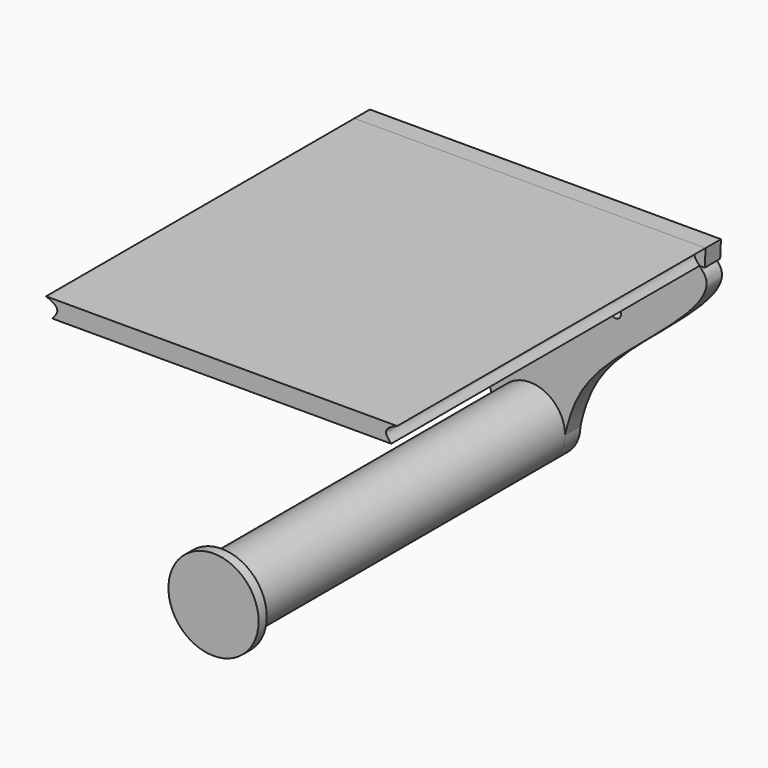
from build123d import *

# Parameters (mm, degrees)
F1_DEPTH = 110
F0_R     = 1.5
F2_DEPTH = 5.5
F3_R     = 12.8729147036
F3_R_2   = 10
F4_DEPTH = 2.9


with BuildPart() as f1:
    # F0 (on Front) → F1 (new body)
    with BuildSketch(Plane.XZ):
        with BuildLine():
            Line((-48.4015151421, 55), (48.4015151421, 55))
            add(Edge.make_bspline(
                [(50.1117266903, 60), (45.4576355608, 58.2266837042), (46.7977000249, 56.7705786305), (48.4015151421, 55)],
                knots=[0, 0, 0, 0, 0.1362259725, 0.1362259725, 0.1362259725, 0.1362259725], degree=3))
            Line((50.1117266903, 60), (0, 60))
            Line((0, 60), (-50.1117266903, 60))
            add(Edge.make_bspline(
                [(-50.1117266903, 60), (-45.4576355608, 58.2266837042), (-46.7977000249, 56.7705786305), (-48.4015151421, 55)],
                knots=[0, 0, 0, 0, 0.1362259725, 0.1362259725, 0.1362259725, 0.1362259725], degree=3))
        make_face()
    extrude(amount=F1_DEPTH)


with BuildPart() as f1b:
    # F0 (on Front) → F1, piece 2 (new body)
    with BuildSketch(Plane.XZ):
        with BuildLine():
            ThreePointArc((-10, 0), (0, -10), (10, 0))
            ThreePointArc((10, 0), (0, 10), (-10, 0))
        make_face()
    extrude(amount=F1_DEPTH)

    # F3 (on face) → F4 (join)
    with BuildSketch(Plane.XZ.offset(110)):
        Circle(F3_R)
        Circle(F3_R_2, mode=Mode.SUBTRACT)
        Circle(F3_R_2)
    extrude(amount=F4_DEPTH)


with BuildPart() as f2:
    # F0 (on Front) → F2 (new body)
    with BuildSketch(Plane.XZ):
        with BuildLine():
            ThreePointArc((-10, 0), (0, -10), (10, 0))
            ThreePointArc((10, 0), (0, 10), (-10, 0))
        make_face()
        with BuildLine():
            ThreePointArc((-10, 0), (0, 10), (10, 0))
            add(Edge.make_bspline(
                [(48.4015151421, 55), (49.0587393006, 54.2744381581), (55.5513754439, 47.0704926237), (16.2774669808, 21.2389924544), (11.7528843024, 7.2172997491), (10, 0)],
                knots=[0.1362259725, 0.1362259725, 0.1362259725, 0.1362259725, 0.1920497388, 0.6528842126, 1, 1, 1, 1], degree=3))
            Line((48.4015151421, 55), (-48.4015151421, 55))
            add(Edge.make_bspline(
                [(-48.4015151421, 55), (-49.0587393006, 54.2744381581), (-55.5513754439, 47.0704926237), (-16.2774669808, 21.2389924544), (-11.7528843024, 7.2172997491), (-10, 0)],
                knots=[0.1362259725, 0.1362259725, 0.1362259725, 0.1362259725, 0.1920497388, 0.6528842126, 1, 1, 1, 1], degree=3))
        make_face()
        with Locations((-24.4867997614, 35.4838720158)):
            Circle(F0_R, mode=Mode.SUBTRACT)
        with Locations((24.4867997614, 35.4838720158)):
            Circle(F0_R, mode=Mode.SUBTRACT)
        with BuildLine():
            Line((-48.4015151421, 55), (48.4015151421, 55))
            add(Edge.make_bspline(
                [(50.1117266903, 60), (45.4576355608, 58.2266837042), (46.7977000249, 56.7705786305), (48.4015151421, 55)],
                knots=[0, 0, 0, 0, 0.1362259725, 0.1362259725, 0.1362259725, 0.1362259725], degree=3))
            Line((50.1117266903, 60), (0, 60))
            Line((0, 60), (-50.1117266903, 60))
            add(Edge.make_bspline(
                [(-50.1117266903, 60), (-45.4576355608, 58.2266837042), (-46.7977000249, 56.7705786305), (-48.4015151421, 55)],
                knots=[0, 0, 0, 0, 0.1362259725, 0.1362259725, 0.1362259725, 0.1362259725], degree=3))
        make_face()
        with BuildLine():
            add(Edge.make_bspline(
                [(50.1117266903, 60), (45.4576355608, 58.2266837042), (46.7977000249, 56.7705786305), (48.4015151421, 55)],
                knots=[0, 0, 0, 0, 0.1362259725, 0.1362259725, 0.1362259725, 0.1362259725], degree=3))
            Line((48.4015151421, 55), (49.8882733097, 55))
            Line((49.8882733097, 55), (50.1117266903, 60))
        make_face()
        with BuildLine():
            Line((-50.1117266903, 55), (-48.4015151421, 55))
            add(Edge.make_bspline(
                [(-50.1117266903, 60), (-45.4576355608, 58.2266837042), (-46.7977000249, 56.7705786305), (-48.4015151421, 55)],
                knots=[0, 0, 0, 0, 0.1362259725, 0.1362259725, 0.1362259725, 0.1362259725], degree=3))
            Line((-50.1117266903, 60), (-50.1117266903, 55))
        make_face()
    extrude(amount=-F2_DEPTH)


solid = Compound([f1.part, f1b.part, f2.part])
